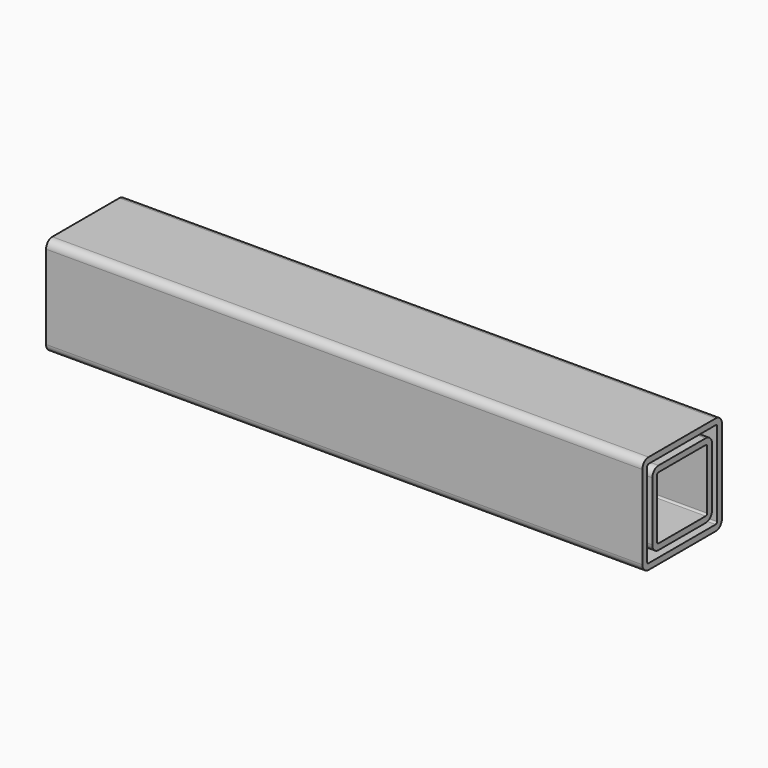
from build123d import *

# Parameters (mm, degrees)
F1_DEPTH = 304.8
F3_DEPTH = 304.8


with BuildPart() as f1:
    # F0 (on Right) → F1 (new body)
    with BuildSketch(Plane.YZ):
        with BuildLine():
            Line((21.43125, 25.4), (-21.43125, 25.4))
            ThreePointArc((-21.43125, 25.4), (-24.23758, 24.23758), (-25.4, 21.43125))
            Line((-25.4, 21.43125), (-25.4, -21.43125))
            ThreePointArc((-25.4, -21.43125), (-24.23758, -24.23758), (-21.43125, -25.4))
            Line((-21.43125, -25.4), (21.43125, -25.4))
            ThreePointArc((21.43125, -25.4), (24.23758, -24.23758), (25.4, -21.43125))
            Line((25.4, -21.43125), (25.4, 21.43125))
            ThreePointArc((25.4, 21.43125), (24.23758, 24.23758), (21.43125, 25.4))
        make_face()
        with BuildLine():
            Line((21.43125, -22.352), (-21.43125, -22.352))
            ThreePointArc((-21.43125, -22.352), (-22.082319, -22.082319), (-22.352, -21.43125))
            Line((-22.352, -21.43125), (-22.352, 21.43125))
            ThreePointArc((-22.352, 21.43125), (-22.082319, 22.082319), (-21.43125, 22.352))
            Line((-21.43125, 22.352), (21.43125, 22.352))
            ThreePointArc((21.43125, 22.352), (22.082319, 22.082319), (22.352, 21.43125))
            Line((22.352, 21.43125), (22.352, -21.43125))
            ThreePointArc((22.352, -21.43125), (22.082319, -22.082319), (21.43125, -22.352))
        make_face(mode=Mode.SUBTRACT)
    extrude(amount=F1_DEPTH)


with BuildPart() as f3:
    # F2 (on Right) → F3 (new body)
    with BuildSketch(Plane.YZ):
        with BuildLine():
            ThreePointArc((19.05, 15.08125), (17.88758, 17.88758), (15.08125, 19.05))
            Line((15.08125, 19.05), (-15.08125, 19.05))
            ThreePointArc((-15.08125, 19.05), (-17.88758, 17.88758), (-19.05, 15.08125))
            Line((-19.05, 15.08125), (-19.05, -15.08125))
            ThreePointArc((-19.05, -15.08125), (-17.88758, -17.88758), (-15.08125, -19.05))
            Line((-15.08125, -19.05), (15.08125, -19.05))
            ThreePointArc((15.08125, -19.05), (17.88758, -17.88758), (19.05, -15.08125))
            Line((19.05, -15.08125), (19.05, 15.08125))
        make_face()
        with BuildLine():
            Line((-15.08125, 16.002), (15.08125, 16.002))
            ThreePointArc((15.08125, 16.002), (15.732319, 15.732319), (16.002, 15.08125))
            Line((16.002, 15.08125), (16.002, -15.08125))
            ThreePointArc((16.002, -15.08125), (15.732319, -15.732319), (15.08125, -16.002))
            Line((15.08125, -16.002), (-15.08125, -16.002))
            ThreePointArc((-15.08125, -16.002), (-15.732319, -15.732319), (-16.002, -15.08125))
            Line((-16.002, -15.08125), (-16.002, 15.08125))
            ThreePointArc((-16.002, 15.08125), (-15.732319, 15.732319), (-15.08125, 16.002))
        make_face(mode=Mode.SUBTRACT)
    extrude(amount=F3_DEPTH)


solid = Compound([f1.part, f3.part])
